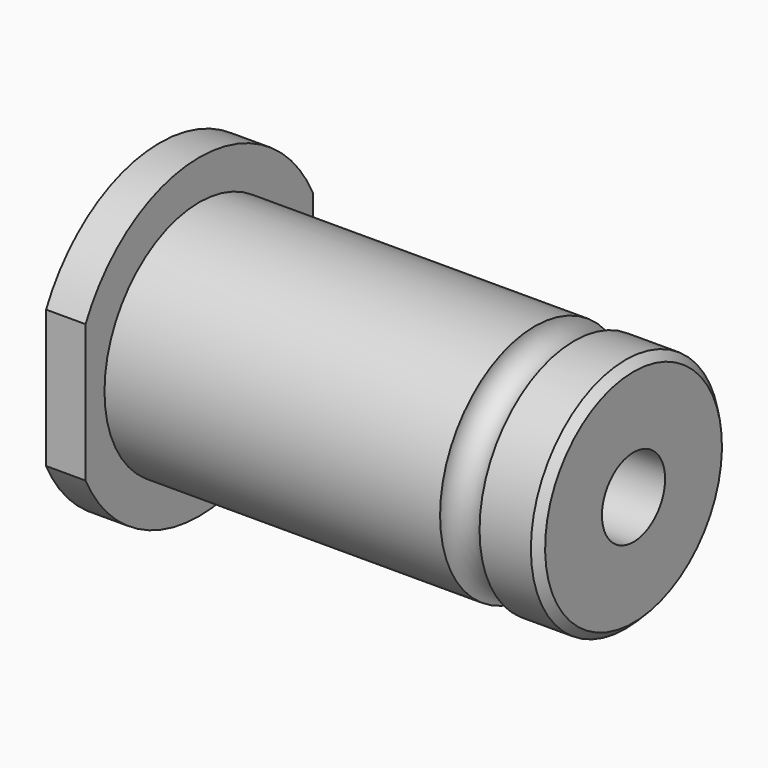
from build123d import *

# Parameters (mm, degrees)
F3_SIZE  = 1
F1_R     = 2.5
F6_DEPTH = 5
F7_R     = 5
F8_DEPTH = 60


with BuildPart() as f2:
    # F0 (on Front) → F2 (revolve)
    with BuildSketch(Plane.XZ):
        Polygon((0, 20), (0, 0), (60, 0), (60, 15), (5, 15), (5, 20), align=None)
    revolve(axis=Axis((30, 0, 0), (1, 0, 0)))

    # F3
    f3_edges = [f2.edges().sort_by_distance(p)[0] for p in [
        (60, 0, -15),
    ]]
    chamfer(f3_edges, length=F3_SIZE)

    # F1 (on face) → F4 (revolve, cut)
    with BuildSketch(Plane.XZ):
        with Locations((50, 15)):
            Circle(F1_R)
    revolve(axis=Axis((30, 0, 0), (1, 0, 0)), mode=Mode.SUBTRACT)

    # F5 (on face) → F6 (cut, through all)
    with BuildSketch(Plane(origin=(0, 0, 0), x_dir=(0, -1, 0), z_dir=(-1, 0, 0))):
        with BuildLine():
            Line((18, 8.7177978871), (18, -8.7177978871))
            ThreePointArc((18, -8.7177978871), (19.4935886896, -4.472135955), (20, 0))
            ThreePointArc((20, 0), (19.4935886896, 4.472135955), (18, 8.7177978871))
        make_face()
        with BuildLine():
            ThreePointArc((-18, 8.7177978871), (-20, 0), (-18, -8.7177978871))
            Line((-18, -8.7177978871), (-18, 8.7177978871))
        make_face()
    extrude(amount=-F6_DEPTH, mode=Mode.SUBTRACT)

    # F7 (on face) → F8 (cut, through all)
    with BuildSketch(Plane(origin=(0, 0, 0), x_dir=(0, -1, 0), z_dir=(-1, 0, 0))):
        Circle(F7_R)
    extrude(amount=-F8_DEPTH, mode=Mode.SUBTRACT)


solid = f2.part
